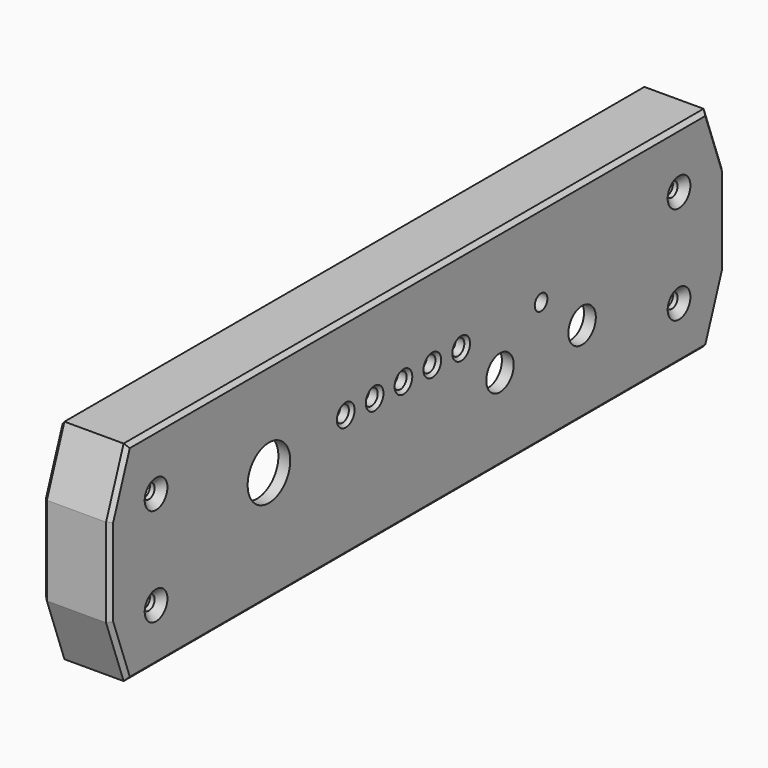
from build123d import *

# Parameters (mm, degrees)
SKETCH014_R             = 2.175
SKETCH014_R_2           = 1
SKETCH014_R_3           = 3.375
SKETCH014_R_4           = 0.9
PAD012_DEPTH            = 1.5
PAD013_DEPTH            = 1.5
PAD013_DEPTH_BACK       = 7
CHAMFER_SIZE            = 0.9
CHAMFER001_SIZE         = 0.5
CHAMFER002_SIZE         = 0.5
CHAMFER003_SIZE         = 0.4
BODY003_PLACEMENT_ANGLE = 180


with BuildPart() as part:
    # Sketch014 → Pad012 (new body)
    with BuildSketch(Plane.YZ.offset(60)):
        Polygon((-44.238463, 6.7), (44.238463, 6.7), (46.2, 1.310722), (46.2, -9.910722), (44.238463, -15.3), (-44.238463, -15.3), (-46.2, -9.910722), (-46.2, 1.310722), align=None)
        with Locations((-26.058118, -6.71)):
            Circle(SKETCH014_R, mode=Mode.SUBTRACT)
        with Locations((-19.558118, -1.5)):
            Circle(SKETCH014_R_2, mode=Mode.SUBTRACT)
        with Locations((-13.058118, -6.71)):
            Circle(SKETCH014_R, mode=Mode.SUBTRACT)
        with Locations((-6.908118, -1.5)):
            Circle(SKETCH014_R_2, mode=Mode.SUBTRACT)
        with Locations((-2.338118, -1.5)):
            Circle(SKETCH014_R_2, mode=Mode.SUBTRACT)
        with Locations((2.231882, -1.5)):
            Circle(SKETCH014_R_2, mode=Mode.SUBTRACT)
        with Locations((6.801882, -1.5)):
            Circle(SKETCH014_R_2, mode=Mode.SUBTRACT)
        with Locations((11.371882, -1.5)):
            Circle(SKETCH014_R_2, mode=Mode.SUBTRACT)
        with Locations((23.531882, -3)):
            Circle(SKETCH014_R_3, mode=Mode.SUBTRACT)
        with Locations((-41.409188, 1.909188)):
            Circle(SKETCH014_R_4, mode=Mode.SUBTRACT)
        with Locations((41.409188, 1.909188)):
            Circle(SKETCH014_R_4, mode=Mode.SUBTRACT)
        with Locations((41.409188, -10.509188)):
            Circle(SKETCH014_R_4, mode=Mode.SUBTRACT)
        with Locations((-41.409188, -10.509188)):
            Circle(SKETCH014_R_4, mode=Mode.SUBTRACT)
    extrude(amount=PAD012_DEPTH)

    # Sketch015 (on Face23 of Pad012) → Pad013 (join, two sides)
    with BuildSketch(Plane.YZ.offset(61.5)) as pad013_sk:
        Polygon((-45.91953, 9.2), (-48.7, 1.560722), (-48.7, -9.660722), (-45.91953, -17.3), (45.91953, -17.3), (48.7, -9.660722), (48.7, 1.560722), (45.91953, 9.2), align=None)
        Polygon((-44.238463, 6.7), (44.238463, 6.7), (46.2, 1.310722), (46.2, -9.910722), (44.238463, -15.3), (-44.238463, -15.3), (-46.2, -9.910722), (-46.2, 1.310722), align=None, mode=Mode.SUBTRACT)
    extrude(amount=-PAD013_DEPTH)
    extrude(pad013_sk.sketch, amount=PAD013_DEPTH_BACK)

    # Chamfer
    chamfer_edges = [part.edges().sort_by_distance(p)[0] for p in [
        (60, -42.309188, -10.509188),
        (60, -42.309188, 1.909188),
        (60, 40.509188, 1.909188),
        (60, 40.509188, -10.509188),
    ]]
    chamfer(chamfer_edges, length=CHAMFER_SIZE)

    # Chamfer001
    chamfer001_edges = [part.edges().sort_by_distance(p)[0] for p in [
        (68.5, 0, 6.7),
        (68.5, -45.219232, 4.005361),
        (68.5, -46.2, -4.3),
        (68.5, -45.219232, -12.605361),
        (68.5, 0, -15.3),
        (68.5, 45.219232, -12.605361),
        (68.5, 46.2, -4.3),
        (68.5, 45.219232, 4.005361),
    ]]
    chamfer(chamfer001_edges, length=CHAMFER001_SIZE)

    # Chamfer002
    chamfer002_edges = [part.edges().sort_by_distance(p)[0] for p in [
        (68.5, 0, 9.2),
        (68.5, -47.309765, 5.380361),
        (68.5, -48.7, -4.05),
        (68.5, -47.309765, -13.480361),
        (68.5, 0, -17.3),
        (68.5, 47.309765, -13.480361),
        (68.5, 48.7, -4.05),
        (68.5, 47.309765, 5.380361),
        (60, 47.309765, 5.380361),
        (60, 48.7, -4.05),
        (60, 47.309765, -13.480361),
        (60, 0, -17.3),
        (60, 0, 9.2),
        (60, -47.309765, 5.380361),
        (60, -48.7, -4.05),
        (60, -47.309765, -13.480361),
    ]]
    chamfer(chamfer002_edges, length=CHAMFER002_SIZE)

    # Chamfer003
    chamfer003_edges = [part.edges().sort_by_distance(p)[0] for p in [
        (60, -7.908118, -1.5),
        (60, -3.338118, -1.5),
        (60, 1.231882, -1.5),
        (60, 5.801882, -1.5),
        (60, 10.371882, -1.5),
    ]]
    chamfer(chamfer003_edges, length=CHAMFER003_SIZE)


with BuildPart() as part_1:
    # Body003 placement: moved
    add(part.part.moved(Location((123, 0, 0))).rotate(Axis((123, 0, 0), (0, 0, 1)), BODY003_PLACEMENT_ANGLE))


solid = part_1.part
